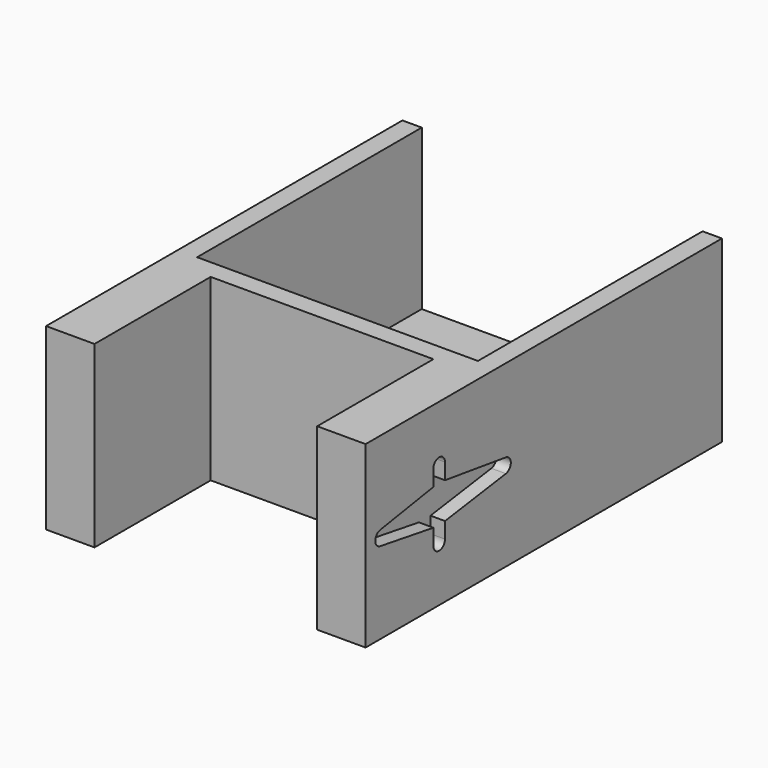
from build123d import *

# Parameters (mm, degrees)
SKETCH_W        = 66
SKETCH_H        = 66
PAD_DEPTH       = 37
SKETCH001_W     = 58
SKETCH001_H     = 58
POCKET_DEPTH    = 33
SKETCH002_W     = 10
SKETCH002_H     = 37
PAD001_DEPTH    = 30
SKETCH003_W     = 66
SKETCH003_H     = 37
POCKET001_DEPTH = 4
POCKET002_DEPTH = 3


with BuildPart() as part:
    # Sketch → Pad (new body)
    with BuildSketch(Plane.XY):
        Rectangle(SKETCH_W, SKETCH_H)
    extrude(amount=PAD_DEPTH)

    # Sketch001 → Pocket (cut)
    with BuildSketch(Plane.XY.offset(37)):
        Rectangle(SKETCH001_W, SKETCH001_H)
    extrude(amount=-POCKET_DEPTH, mode=Mode.SUBTRACT)

    # Sketch002 → Pad001 (new body)
    with BuildSketch(Plane.XZ.offset(33)):
        with Locations((-28, 18.5)):
            Rectangle(SKETCH002_W, SKETCH002_H)
        with Locations((28, 18.5)):
            Rectangle(SKETCH002_W, SKETCH002_H)
    extrude(amount=PAD001_DEPTH)

    # Sketch003 → Pocket001 (cut)
    with BuildSketch(Plane(origin=(0, 33, 0), x_dir=(-1, 0, 0), z_dir=(0, 1, 0))):
        with Locations((0, 18.5)):
            Rectangle(SKETCH003_W, SKETCH003_H)
    extrude(amount=-POCKET001_DEPTH, mode=Mode.SUBTRACT)

    # Sketch005 → Pocket002 (cut)
    with BuildSketch(Plane.YZ.offset(33)):
        with BuildLine():
            Line((-45.5, 22.09772), (-45.5, 25.389621))
            ThreePointArc((-42.5, 25.389621), (-44, 26.889621), (-45.5, 25.389621))
            Line((-42.5, 25.389621), (-42.5, 22.09772))
            Line((-42.5, 22.09772), (-26.789852, 19.874827))
            ThreePointArc((-26.789852, 16.904415), (-25.5, 18.389621), (-26.789852, 19.874827))
            Line((-26.789852, 16.904415), (-42.5, 14.681522))
            Line((-42.5, 14.681522), (-42.5, 11.389621))
            ThreePointArc((-45.5, 11.389621), (-44, 9.889621), (-42.5, 11.389621))
            Line((-45.5, 11.389621), (-45.5, 14.681522))
            Line((-45.5, 14.681522), (-59.240035, 16.908951))
            ThreePointArc((-59.240035, 19.870291), (-60.5, 18.389621), (-59.240035, 16.908951))
            Line((-59.240035, 19.870291), (-45.5, 22.09772))
        make_face()
    extrude(amount=-POCKET002_DEPTH, mode=Mode.SUBTRACT)


solid = part.part
